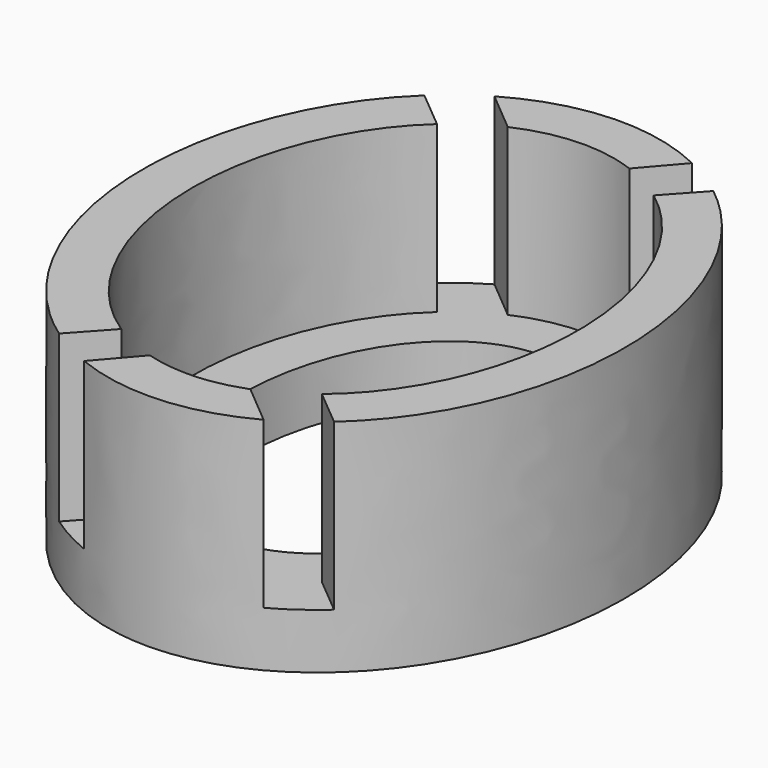
from build123d import *

# Parameters (mm, degrees)
PAD005_DEPTH            = 3
BODY005_PLACEMENT_ANGLE = 180
PAD004_DEPTH            = 3
PAD003_DEPTH            = 4.15
PAD002_DEPTH            = 3.5
PAD001_DEPTH            = 4


with BuildPart() as body005:
    # Sketch005 → Pad005 (new body)
    with BuildSketch(Plane.XY):
        Polygon((-4.591754, 12.714419), (0.004513, 8.857693), (3.917215, 13.406404), (4.70737, 12.793497), (-0.006046, 7.618198), (-5.381909, 12.101512), align=None)
    extrude(amount=PAD005_DEPTH)


with BuildPart() as body005_1:
    # Body005 placement: moved
    add(body005.part.moved(Location((0, 9.87, 1))).rotate(Axis((0, 9.87, 1), (0, 0, 1)), BODY005_PLACEMENT_ANGLE))


with BuildPart() as body004:
    # Sketch004 → Pad004 (new body)
    with BuildSketch(Plane.XY):
        Polygon((-4.591754, 12.714419), (0.004513, 8.857693), (3.917215, 13.406404), (4.70737, 12.793497), (-0.006046, 7.618198), (-5.381909, 12.101512), align=None)
    extrude(amount=PAD004_DEPTH)


with BuildPart() as body004_1:
    # Body004 placement: moved
    add(body004.part.moved(Location((0, -1.125, 1))))


with BuildPart() as body003:
    # Sketch003 → Pad003 (new body)
    with BuildSketch(Plane.XY):
        with BuildLine():
            add(Edge.make_bspline(
                [(0.010475, 0.000108), (4.513548, 0.048324), (2.204195, 5.423906), (-0.105159, 10.799489), (-2.298879, 5.37569), (-4.492599, -0.048109), (0.010475, 0.000108)],
                knots=[0, 0, 0, 2.094395, 2.094395, 4.18879, 4.18879, 6.283185, 6.283185, 6.283185], degree=2, weights=[1, 0.5, 1, 0.5, 1, 0.5, 1]))
        make_face()
    extrude(amount=PAD003_DEPTH)


with BuildPart() as body003_1:
    # Body003 placement: moved
    add(body003.part.moved(Location((0, 0.875, 0))))


with BuildPart() as body001:
    # Sketch001 → Pad002 (new body)
    with BuildSketch(Plane.XY):
        with BuildLine():
            add(Edge.make_bspline(
                [(-0.008121, -3.9e-05), (6.054024, 0.01985), (3.000807, 6.759869), (-0.052411, 13.499889), (-3.061339, 6.739981), (-6.070266, -0.019927), (-0.008121, -3.9e-05)],
                knots=[0, 0, 0, 2.094395, 2.094395, 4.18879, 4.18879, 6.283185, 6.283185, 6.283185], degree=2, weights=[1, 0.5, 1, 0.5, 1, 0.5, 1]))
        make_face()
    extrude(amount=PAD002_DEPTH)


with BuildPart() as body001_1:
    # Body001 placement: moved
    add(body001.part.moved(Location((0, 0, 1))))


with BuildPart() as cut:
    # Sketch002 → Pad001 (new body)
    with BuildSketch(Plane.XY):
        with BuildLine():
            add(Edge.make_bspline(
                [(-0.015672, -0.000129), (7.561913, 0.045384), (3.724696, 8.084982), (-0.112521, 16.124581), (-3.85289, 8.03947), (-7.593258, -0.045641), (-0.015672, -0.000129)],
                knots=[0, 0, 0, 2.094395, 2.094395, 4.18879, 4.18879, 6.283185, 6.283185, 6.283185], degree=2, weights=[1, 0.5, 1, 0.5, 1, 0.5, 1]))
        make_face()
    extrude(amount=PAD001_DEPTH)


with BuildPart() as cut_1:
    # Body002 placement: moved
    add(cut.part.moved(Location((0, -0.875, 0))))

    # Cut036: cut Body001
    add(body001_1.part, mode=Mode.SUBTRACT)

    # Cut037: cut Body003
    add(body003_1.part, mode=Mode.SUBTRACT)

    # Cut035: cut Body004
    add(body004_1.part, mode=Mode.SUBTRACT)

    # Cut: cut Body005
    add(body005_1.part, mode=Mode.SUBTRACT)


solid = cut_1.part
